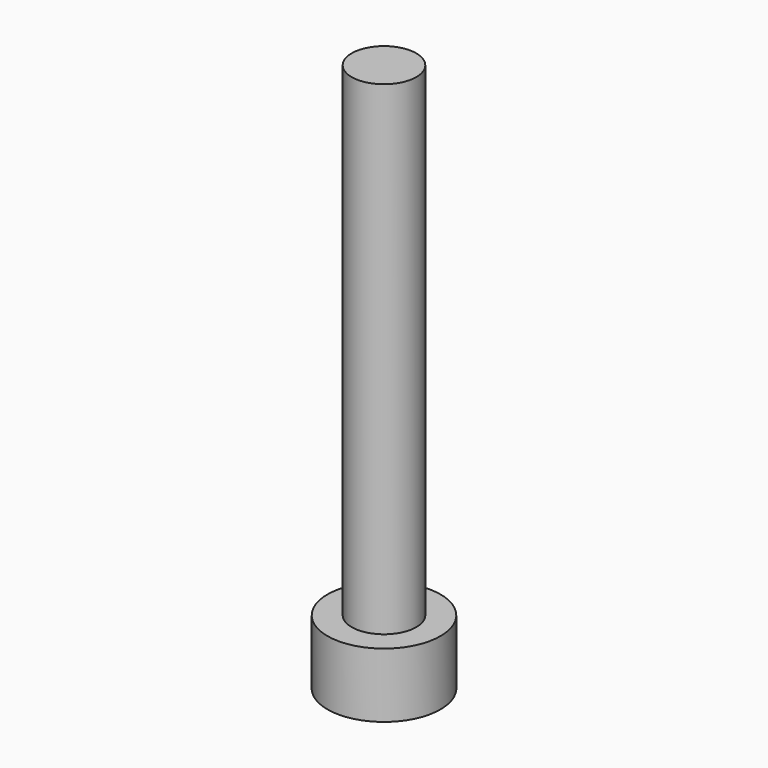
from build123d import *

# Parameters (mm, degrees)
POCKET_DEPTH = 2


with BuildPart() as part:
    # Sketch → Revolution (revolve)
    with BuildSketch(Plane.YZ):
        Polygon((-3.5, 4), (-3.5, 0), (0, 0), (0, 34), (-2, 34), (-2, 4), align=None)
    revolve(axis=Axis((0, 0, 0), (0, 0, 1)))

    # Sketch001 (on Face2 of Revolution) → Pocket (cut)
    with BuildSketch(Plane.YX):
        Polygon((0, 2.5), (-2.165064, 1.25), (-2.165064, -1.25), (0, -2.5), (2.165064, -1.25), (2.165064, 1.25), align=None)
    extrude(amount=-POCKET_DEPTH, mode=Mode.SUBTRACT)


solid = part.part
